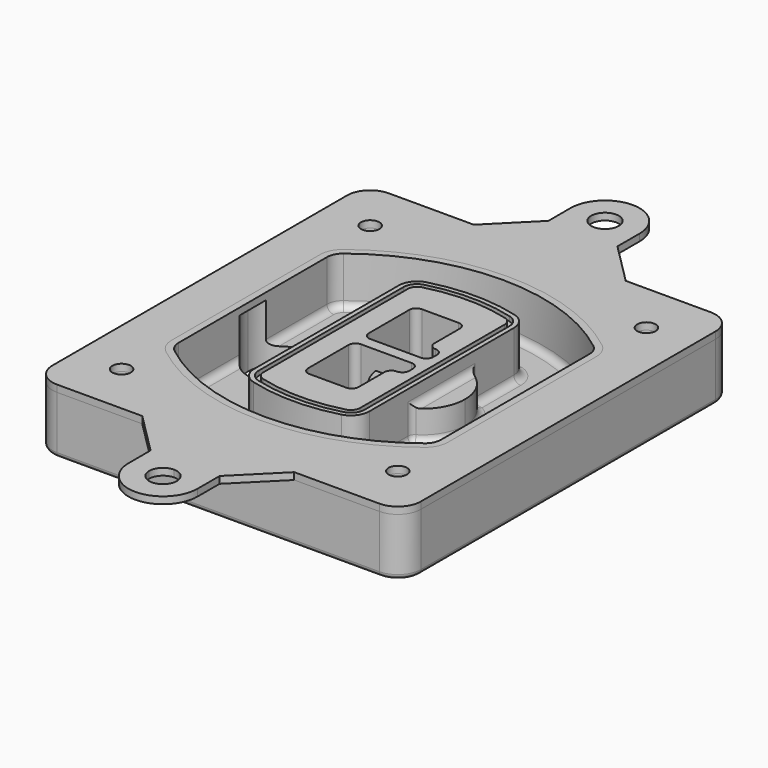
from build123d import *

# Parameters (mm, degrees)
F0_R      = 4
F1_DEPTH  = 25
F2_DEPTH  = 3
F3_DEPTH  = 18
F5_DEPTH  = 21
F6_DEPTH  = 2
F8_DEPTH  = 20
F9_DEPTH  = 16
F10_DEPTH = 25
F7_R      = 6
F7_R_2    = 4
F11_DEPTH = 6
F13_DEPTH = 9
F14_R     = 3
F15_R     = 2
F16_R     = 6
F16_R_2   = 4
F17_DEPTH = 3


with BuildPart() as f1:
    # F0 (on Top) → F1 (new body)
    with BuildSketch(Plane.XY):
        with BuildLine():
            ThreePointArc((14.05, 38.3825811321), (16.9789321881, 31.3115133202), (24.05, 28.3825811321))
            Line((24.05, 28.3825811321), (164.05, 28.3825811321))
            ThreePointArc((164.05, 28.3825811321), (171.1210678119, 31.3115133202), (174.05, 38.3825811321))
            Line((174.05, 38.3825811321), (174.05, 198.3825811321))
            ThreePointArc((174.05, 198.3825811321), (171.1210678119, 205.4536489439), (164.05, 208.3825811321))
            Line((164.05, 208.3825811321), (24.05, 208.3825811321))
            ThreePointArc((24.05, 208.3825811321), (16.9789321881, 205.4536489439), (14.05, 198.3825811321))
            Line((14.05, 198.3825811321), (14.05, 38.3825811321))
        make_face()
        with Locations((34.05, 50.8825811321)):
            Circle(F0_R, mode=Mode.SUBTRACT)
        with Locations((154.05, 50.8825811321)):
            Circle(F0_R, mode=Mode.SUBTRACT)
        with Locations((34.05, 185.8825811321)):
            Circle(F0_R, mode=Mode.SUBTRACT)
        with BuildLine():
            ThreePointArc((30.05, 158.6760234193), (31.4679615202, 164.8154295545), (35.4346153846, 169.7112011673))
            ThreePointArc((35.4346153846, 169.7112011673), (94.05, 189.8825811321), (152.6653846154, 169.7112011673))
            ThreePointArc((152.6653846154, 169.7112011673), (156.6320384798, 164.8154295545), (158.05, 158.6760234193))
            Line((158.05, 158.6760234193), (158.05, 78.0891388448))
            ThreePointArc((158.05, 78.0891388448), (156.6320384798, 71.9497327097), (152.6653846154, 67.0539610969))
            ThreePointArc((152.6653846154, 67.0539610969), (94.05, 46.8825811321), (35.4346153846, 67.0539610969))
            ThreePointArc((35.4346153846, 67.0539610969), (31.4679615202, 71.9497327097), (30.05, 78.0891388448))
            Line((30.05, 78.0891388448), (30.05, 158.6760234193))
        make_face(mode=Mode.SUBTRACT)
        with Locations((154.05, 185.8825811321)):
            Circle(F0_R, mode=Mode.SUBTRACT)
        with BuildLine():
            ThreePointArc((152.6653846154, 169.7112011673), (94.05, 189.8825811321), (35.4346153846, 169.7112011673))
            ThreePointArc((35.4346153846, 169.7112011673), (31.4679615202, 164.8154295545), (30.05, 158.6760234193))
            Line((30.05, 158.6760234193), (30.05, 78.0891388448))
            ThreePointArc((30.05, 78.0891388448), (31.4679615202, 71.9497327097), (35.4346153846, 67.0539610969))
            ThreePointArc((35.4346153846, 67.0539610969), (94.05, 46.8825811321), (152.6653846154, 67.0539610969))
            ThreePointArc((152.6653846154, 67.0539610969), (156.6320384798, 71.9497327097), (158.05, 78.0891388448))
            Line((158.05, 78.0891388448), (158.05, 158.6760234193))
            ThreePointArc((158.05, 158.6760234193), (156.6320384798, 164.8154295545), (152.6653846154, 169.7112011673))
        make_face()
        with BuildLine():
            Line((34.05, 78.0891388448), (34.05, 158.6760234193))
            ThreePointArc((34.05, 158.6760234193), (35.0628296573, 163.0613135158), (37.8961538462, 166.5582932393))
            ThreePointArc((37.8961538462, 166.5582932393), (94.05, 185.8825811321), (150.2038461538, 166.5582932393))
            ThreePointArc((150.2038461538, 166.5582932393), (153.0371703427, 163.0613135158), (154.05, 158.6760234193))
            Line((154.05, 158.6760234193), (154.05, 78.0891388448))
            ThreePointArc((154.05, 78.0891388448), (153.0371703427, 73.7038487483), (150.2038461538, 70.2068690248))
            ThreePointArc((150.2038461538, 70.2068690248), (94.05, 50.8825811321), (37.8961538462, 70.2068690248))
            ThreePointArc((37.8961538462, 70.2068690248), (35.0628296573, 73.7038487483), (34.05, 78.0891388448))
        make_face(mode=Mode.SUBTRACT)
        with BuildLine():
            ThreePointArc((37.8961538462, 166.5582932393), (35.0628296573, 163.0613135158), (34.05, 158.6760234193))
            Line((34.05, 158.6760234193), (34.05, 78.0891388448))
            ThreePointArc((34.05, 78.0891388448), (35.0628296573, 73.7038487483), (37.8961538462, 70.2068690248))
            ThreePointArc((37.8961538462, 70.2068690248), (94.05, 50.8825811321), (150.2038461538, 70.2068690248))
            ThreePointArc((150.2038461538, 70.2068690248), (153.0371703427, 73.7038487483), (154.05, 78.0891388448))
            Line((154.05, 78.0891388448), (154.05, 158.6760234193))
            ThreePointArc((154.05, 158.6760234193), (153.0371703427, 163.0613135158), (150.2038461538, 166.5582932393))
            ThreePointArc((150.2038461538, 166.5582932393), (94.05, 185.8825811321), (37.8961538462, 166.5582932393))
        make_face()
        with BuildLine():
            ThreePointArc((148.3576923077, 164.1936122933), (150.3410192399, 161.7457264869), (151.05, 158.6760234193))
            Line((151.05, 158.6760234193), (151.05, 78.0891388448))
            ThreePointArc((151.05, 78.0891388448), (150.3410192399, 75.0194357772), (148.3576923077, 72.5715499708))
            ThreePointArc((148.3576923077, 72.5715499708), (94.05, 53.8825811321), (39.7423076923, 72.5715499708))
            ThreePointArc((39.7423076923, 72.5715499708), (37.7589807601, 75.0194357772), (37.05, 78.0891388448))
            Line((37.05, 78.0891388448), (37.05, 158.6760234193))
            ThreePointArc((37.05, 158.6760234193), (37.7589807601, 161.7457264869), (39.7423076923, 164.1936122933))
            ThreePointArc((39.7423076923, 164.1936122933), (94.05, 182.8825811321), (148.3576923077, 164.1936122933))
        make_face(mode=Mode.SUBTRACT)
        with BuildLine():
            Line((151.05, 78.0891388448), (151.05, 158.6760234193))
            ThreePointArc((151.05, 158.6760234193), (150.3410192399, 161.7457264869), (148.3576923077, 164.1936122933))
            ThreePointArc((148.3576923077, 164.1936122933), (94.05, 182.8825811321), (39.7423076923, 164.1936122933))
            ThreePointArc((39.7423076923, 164.1936122933), (37.7589807601, 161.7457264869), (37.05, 158.6760234193))
            Line((37.05, 158.6760234193), (37.05, 78.0891388448))
            ThreePointArc((37.05, 78.0891388448), (37.7589807601, 75.0194357772), (39.7423076923, 72.5715499708))
            ThreePointArc((39.7423076923, 72.5715499708), (94.05, 53.8825811321), (148.3576923077, 72.5715499708))
            ThreePointArc((148.3576923077, 72.5715499708), (150.3410192399, 75.0194357772), (151.05, 78.0891388448))
        make_face()
    extrude(amount=-F1_DEPTH)

    # F0 (on Top) → F2 (join)
    with BuildSketch(Plane.XY):
        with BuildLine():
            ThreePointArc((37.8961538462, 166.5582932393), (35.0628296573, 163.0613135158), (34.05, 158.6760234193))
            Line((34.05, 158.6760234193), (34.05, 78.0891388448))
            ThreePointArc((34.05, 78.0891388448), (35.0628296573, 73.7038487483), (37.8961538462, 70.2068690248))
            ThreePointArc((37.8961538462, 70.2068690248), (94.05, 50.8825811321), (150.2038461538, 70.2068690248))
            ThreePointArc((150.2038461538, 70.2068690248), (153.0371703427, 73.7038487483), (154.05, 78.0891388448))
            Line((154.05, 78.0891388448), (154.05, 158.6760234193))
            ThreePointArc((154.05, 158.6760234193), (153.0371703427, 163.0613135158), (150.2038461538, 166.5582932393))
            ThreePointArc((150.2038461538, 166.5582932393), (94.05, 185.8825811321), (37.8961538462, 166.5582932393))
        make_face()
        with BuildLine():
            ThreePointArc((148.3576923077, 164.1936122933), (150.3410192399, 161.7457264869), (151.05, 158.6760234193))
            Line((151.05, 158.6760234193), (151.05, 78.0891388448))
            ThreePointArc((151.05, 78.0891388448), (150.3410192399, 75.0194357772), (148.3576923077, 72.5715499708))
            ThreePointArc((148.3576923077, 72.5715499708), (94.05, 53.8825811321), (39.7423076923, 72.5715499708))
            ThreePointArc((39.7423076923, 72.5715499708), (37.7589807601, 75.0194357772), (37.05, 78.0891388448))
            Line((37.05, 78.0891388448), (37.05, 158.6760234193))
            ThreePointArc((37.05, 158.6760234193), (37.7589807601, 161.7457264869), (39.7423076923, 164.1936122933))
            ThreePointArc((39.7423076923, 164.1936122933), (94.05, 182.8825811321), (148.3576923077, 164.1936122933))
        make_face(mode=Mode.SUBTRACT)
    extrude(amount=F2_DEPTH)

    # F0 (on Top) → F3 (cut)
    with BuildSketch(Plane.XY):
        with BuildLine():
            Line((151.05, 78.0891388448), (151.05, 158.6760234193))
            ThreePointArc((151.05, 158.6760234193), (150.3410192399, 161.7457264869), (148.3576923077, 164.1936122933))
            ThreePointArc((148.3576923077, 164.1936122933), (94.05, 182.8825811321), (39.7423076923, 164.1936122933))
            ThreePointArc((39.7423076923, 164.1936122933), (37.7589807601, 161.7457264869), (37.05, 158.6760234193))
            Line((37.05, 158.6760234193), (37.05, 78.0891388448))
            ThreePointArc((37.05, 78.0891388448), (37.7589807601, 75.0194357772), (39.7423076923, 72.5715499708))
            ThreePointArc((39.7423076923, 72.5715499708), (94.05, 53.8825811321), (148.3576923077, 72.5715499708))
            ThreePointArc((148.3576923077, 72.5715499708), (150.3410192399, 75.0194357772), (151.05, 78.0891388448))
        make_face()
    extrude(amount=-F3_DEPTH, mode=Mode.SUBTRACT)

    # F4 (on face) → F5 (join, through all)
    with BuildSketch(Plane.XY.offset(3)):
        with BuildLine():
            ThreePointArc((69.05, 79.13605345), (70.6988454002, 74.2716074128), (74.9657088123, 71.4123412437))
            ThreePointArc((74.9657088123, 71.4123412437), (94.05, 68.8825811321), (113.1342911877, 71.4123412437))
            ThreePointArc((113.1342911877, 71.4123412437), (117.4011545998, 74.2716074128), (119.05, 79.13605345))
            Line((119.05, 79.13605345), (119.05, 157.6291088141))
            ThreePointArc((119.05, 157.6291088141), (117.4011545998, 162.4935548514), (113.1342911877, 165.3528210204))
            ThreePointArc((113.1342911877, 165.3528210204), (94.05, 167.8825811321), (74.9657088123, 165.3528210204))
            ThreePointArc((74.9657088123, 165.3528210204), (70.6988454002, 162.4935548514), (69.05, 157.6291088141))
            Line((69.05, 157.6291088141), (69.05, 79.13605345))
        make_face()
        with BuildLine():
            ThreePointArc((112.6132183908, 163.4218929688), (115.8133659499, 161.2774433421), (117.05, 157.6291088141))
            Line((117.05, 157.6291088141), (117.05, 79.13605345))
            ThreePointArc((117.05, 79.13605345), (115.8133659499, 75.4877189221), (112.6132183908, 73.3432692953))
            ThreePointArc((112.6132183908, 73.3432692953), (94.05, 70.8825811321), (75.4867816092, 73.3432692953))
            ThreePointArc((75.4867816092, 73.3432692953), (72.2866340501, 75.4877189221), (71.05, 79.13605345))
            Line((71.05, 79.13605345), (71.05, 157.6291088141))
            ThreePointArc((71.05, 157.6291088141), (72.2866340501, 161.2774433421), (75.4867816092, 163.4218929688))
            ThreePointArc((75.4867816092, 163.4218929688), (94.05, 165.8825811321), (112.6132183908, 163.4218929688))
        make_face(mode=Mode.SUBTRACT)
        with BuildLine():
            Line((117.05, 79.13605345), (117.05, 157.6291088141))
            ThreePointArc((117.05, 157.6291088141), (115.8133659499, 161.2774433421), (112.6132183908, 163.4218929688))
            ThreePointArc((112.6132183908, 163.4218929688), (94.05, 165.8825811321), (75.4867816092, 163.4218929688))
            ThreePointArc((75.4867816092, 163.4218929688), (72.2866340501, 161.2774433421), (71.05, 157.6291088141))
            Line((71.05, 157.6291088141), (71.05, 79.13605345))
            ThreePointArc((71.05, 79.13605345), (72.2866340501, 75.4877189221), (75.4867816092, 73.3432692953))
            ThreePointArc((75.4867816092, 73.3432692953), (94.05, 70.8825811321), (112.6132183908, 73.3432692953))
            ThreePointArc((112.6132183908, 73.3432692953), (115.8133659499, 75.4877189221), (117.05, 79.13605345))
        make_face()
        with BuildLine():
            ThreePointArc((112.0921455939, 161.4909649173), (114.2255772999, 160.0613318328), (115.05, 157.6291088141))
            Line((115.05, 157.6291088141), (115.05, 79.13605345))
            ThreePointArc((115.05, 79.13605345), (114.2255772999, 76.7038304314), (112.0921455939, 75.2741973469))
            ThreePointArc((112.0921455939, 75.2741973469), (94.05, 72.8825811321), (76.0078544061, 75.2741973469))
            ThreePointArc((76.0078544061, 75.2741973469), (73.8744227001, 76.7038304314), (73.05, 79.13605345))
            Line((73.05, 79.13605345), (73.05, 157.6291088141))
            ThreePointArc((73.05, 157.6291088141), (73.8744227001, 160.0613318328), (76.0078544061, 161.4909649173))
            ThreePointArc((76.0078544061, 161.4909649173), (94.05, 163.8825811321), (112.0921455939, 161.4909649173))
        make_face(mode=Mode.SUBTRACT)
        with BuildLine():
            Line((115.05, 79.13605345), (115.05, 157.6291088141))
            ThreePointArc((115.05, 157.6291088141), (114.2255772999, 160.0613318328), (112.0921455939, 161.4909649173))
            ThreePointArc((112.0921455939, 161.4909649173), (94.05, 163.8825811321), (76.0078544061, 161.4909649173))
            ThreePointArc((76.0078544061, 161.4909649173), (73.8744227001, 160.0613318328), (73.05, 157.6291088141))
            Line((73.05, 157.6291088141), (73.05, 79.13605345))
            ThreePointArc((73.05, 79.13605345), (73.8744227001, 76.7038304314), (76.0078544061, 75.2741973469))
            ThreePointArc((76.0078544061, 75.2741973469), (94.05, 72.8825811321), (112.0921455939, 75.2741973469))
            ThreePointArc((112.0921455939, 75.2741973469), (114.2255772999, 76.7038304314), (115.05, 79.13605345))
        make_face()
        with BuildLine():
            Line((86.05, 115.8825811321), (108.05, 115.8825811321))
            ThreePointArc((108.05, 115.8825811321), (110.1713203436, 115.0039014756), (111.05, 112.8825811321))
            Line((111.05, 112.8825811321), (111.05, 110.8825811321))
            ThreePointArc((111.05, 110.8825811321), (110.1713203436, 108.7612607885), (108.05, 107.8825811321))
            ThreePointArc((108.05, 107.8825811321), (105.9286796564, 107.0039014756), (105.05, 104.8825811321))
            Line((105.05, 104.8825811321), (105.05, 90.8825811321))
            ThreePointArc((105.05, 90.8825811321), (104.1713203436, 88.7612607885), (102.05, 87.8825811321))
            Line((102.05, 87.8825811321), (86.05, 87.8825811321))
            ThreePointArc((86.05, 87.8825811321), (83.9286796564, 88.7612607885), (83.05, 90.8825811321))
            Line((83.05, 90.8825811321), (83.05, 112.8825811321))
            ThreePointArc((83.05, 112.8825811321), (83.9286796564, 115.0039014756), (86.05, 115.8825811321))
        make_face(mode=Mode.SUBTRACT)
        with BuildLine():
            ThreePointArc((86.05, 120.8825811321), (83.9286796564, 121.7612607885), (83.05, 123.8825811321))
            Line((83.05, 123.8825811321), (83.05, 145.8825811321))
            ThreePointArc((83.05, 145.8825811321), (83.9286796564, 148.0039014756), (86.05, 148.8825811321))
            Line((86.05, 148.8825811321), (102.05, 148.8825811321))
            ThreePointArc((102.05, 148.8825811321), (104.1713203436, 148.0039014756), (105.05, 145.8825811321))
            Line((105.05, 145.8825811321), (105.05, 131.8825811321))
            ThreePointArc((105.05, 131.8825811321), (105.9286796564, 129.7612607885), (108.05, 128.8825811321))
            ThreePointArc((108.05, 128.8825811321), (110.1713203436, 128.0039014756), (111.05, 125.8825811321))
            Line((111.05, 125.8825811321), (111.05, 123.8825811321))
            ThreePointArc((111.05, 123.8825811321), (110.1713203436, 121.7612607885), (108.05, 120.8825811321))
            Line((108.05, 120.8825811321), (86.05, 120.8825811321))
        make_face(mode=Mode.SUBTRACT)
    extrude(amount=-F5_DEPTH)

    # F4 (on face) → F6 (cut)
    with BuildSketch(Plane.XY.offset(3)):
        with BuildLine():
            Line((117.05, 79.13605345), (117.05, 157.6291088141))
            ThreePointArc((117.05, 157.6291088141), (115.8133659499, 161.2774433421), (112.6132183908, 163.4218929688))
            ThreePointArc((112.6132183908, 163.4218929688), (94.05, 165.8825811321), (75.4867816092, 163.4218929688))
            ThreePointArc((75.4867816092, 163.4218929688), (72.2866340501, 161.2774433421), (71.05, 157.6291088141))
            Line((71.05, 157.6291088141), (71.05, 79.13605345))
            ThreePointArc((71.05, 79.13605345), (72.2866340501, 75.4877189221), (75.4867816092, 73.3432692953))
            ThreePointArc((75.4867816092, 73.3432692953), (94.05, 70.8825811321), (112.6132183908, 73.3432692953))
            ThreePointArc((112.6132183908, 73.3432692953), (115.8133659499, 75.4877189221), (117.05, 79.13605345))
        make_face()
        with BuildLine():
            ThreePointArc((112.0921455939, 161.4909649173), (114.2255772999, 160.0613318328), (115.05, 157.6291088141))
            Line((115.05, 157.6291088141), (115.05, 79.13605345))
            ThreePointArc((115.05, 79.13605345), (114.2255772999, 76.7038304314), (112.0921455939, 75.2741973469))
            ThreePointArc((112.0921455939, 75.2741973469), (94.05, 72.8825811321), (76.0078544061, 75.2741973469))
            ThreePointArc((76.0078544061, 75.2741973469), (73.8744227001, 76.7038304314), (73.05, 79.13605345))
            Line((73.05, 79.13605345), (73.05, 157.6291088141))
            ThreePointArc((73.05, 157.6291088141), (73.8744227001, 160.0613318328), (76.0078544061, 161.4909649173))
            ThreePointArc((76.0078544061, 161.4909649173), (94.05, 163.8825811321), (112.0921455939, 161.4909649173))
        make_face(mode=Mode.SUBTRACT)
    extrude(amount=-F6_DEPTH, mode=Mode.SUBTRACT)

    # F7 (on face) → F8 (join)
    with BuildSketch(Plane(origin=(0, 0, -25), x_dir=(1, 0, 0), z_dir=(0, 0, -1))):
        with BuildLine():
            ThreePointArc((97.33842436, -118.3825811321), (110.8067035675, -104.9143019245), (124.274982775, -118.3825811321))
            Line((124.274982775, -118.3825811321), (129.274982775, -118.3825811321))
            ThreePointArc((129.274982775, -118.3825811321), (110.8067035675, -99.9143019245), (92.33842436, -118.3825811321))
            Line((92.33842436, -118.3825811321), (97.33842436, -118.3825811321))
        make_face()
        with BuildLine():
            Line((97.33842436, -118.3825811321), (124.274982775, -118.3825811321))
            ThreePointArc((124.274982775, -118.3825811321), (110.8067035675, -104.9143019245), (97.33842436, -118.3825811321))
        make_face()
        with BuildLine():
            ThreePointArc((97.33842436, -118.3825811321), (110.8067035675, -131.8508603396), (124.274982775, -118.3825811321))
            Line((124.274982775, -118.3825811321), (97.33842436, -118.3825811321))
        make_face()
        with BuildLine():
            Line((129.274982775, -118.3825811321), (124.274982775, -118.3825811321))
            ThreePointArc((124.274982775, -118.3825811321), (110.8067035675, -131.8508603396), (97.33842436, -118.3825811321))
            Line((97.33842436, -118.3825811321), (92.33842436, -118.3825811321))
            ThreePointArc((92.33842436, -118.3825811321), (110.8067035675, -136.8508603396), (129.274982775, -118.3825811321))
        make_face()
    extrude(amount=-F8_DEPTH)

    # F7 (on face) → F9 (cut)
    with BuildSketch(Plane(origin=(0, 0, -25), x_dir=(1, 0, 0), z_dir=(0, 0, -1))):
        with BuildLine():
            Line((97.33842436, -118.3825811321), (124.274982775, -118.3825811321))
            ThreePointArc((124.274982775, -118.3825811321), (110.8067035675, -104.9143019245), (97.33842436, -118.3825811321))
        make_face()
        with BuildLine():
            ThreePointArc((97.33842436, -118.3825811321), (110.8067035675, -131.8508603396), (124.274982775, -118.3825811321))
            Line((124.274982775, -118.3825811321), (97.33842436, -118.3825811321))
        make_face()
    extrude(amount=-F9_DEPTH, mode=Mode.SUBTRACT)

    # F7 (on face) → F10 (cut)
    with BuildSketch(Plane(origin=(0, 0, -25), x_dir=(1, 0, 0), z_dir=(0, 0, -1))):
        with BuildLine():
            Line((35.0181770675, -118.3825811321), (61.9547354825, -118.3825811321))
            ThreePointArc((61.9547354825, -118.3825811321), (48.486456275, -104.9143019245), (35.0181770675, -118.3825811321))
        make_face()
        with BuildLine():
            ThreePointArc((35.0181770675, -118.3825811321), (48.486456275, -131.8508603396), (61.9547354825, -118.3825811321))
            Line((61.9547354825, -118.3825811321), (35.0181770675, -118.3825811321))
        make_face()
    extrude(amount=-F10_DEPTH, mode=Mode.SUBTRACT)

    # F7 (on face) → F11 (cut)
    with BuildSketch(Plane(origin=(0, 0, -25), x_dir=(1, 0, 0), z_dir=(0, 0, -1))):
        with Locations((154.05, -185.8825811321)):
            Circle(F7_R)
        with Locations((154.05, -185.8825811321)):
            Circle(F7_R_2, mode=Mode.SUBTRACT)
        with Locations((154.05, -185.8825811321)):
            Circle(F7_R)
        with Locations((154.05, -185.8825811321)):
            Circle(F7_R_2, mode=Mode.SUBTRACT)
        with Locations((34.05, -185.8825811321)):
            Circle(F7_R)
        with Locations((34.05, -185.8825811321)):
            Circle(F7_R_2, mode=Mode.SUBTRACT)
        with Locations((34.05, -185.8825811321)):
            Circle(F7_R)
        with Locations((34.05, -185.8825811321)):
            Circle(F7_R_2, mode=Mode.SUBTRACT)
        with Locations((34.05, -50.8825811321)):
            Circle(F7_R)
        with Locations((34.05, -50.8825811321)):
            Circle(F7_R_2, mode=Mode.SUBTRACT)
        with Locations((34.05, -50.8825811321)):
            Circle(F7_R)
        with Locations((34.05, -50.8825811321)):
            Circle(F7_R_2, mode=Mode.SUBTRACT)
        with Locations((154.05, -50.8825811321)):
            Circle(F7_R)
        with Locations((154.05, -50.8825811321)):
            Circle(F7_R_2, mode=Mode.SUBTRACT)
        with Locations((154.05, -50.8825811321)):
            Circle(F7_R)
        with Locations((154.05, -50.8825811321)):
            Circle(F7_R_2, mode=Mode.SUBTRACT)
    extrude(amount=-F11_DEPTH, mode=Mode.SUBTRACT)

    # F12 (on face) → F13 (cut, through all)
    with BuildSketch(Plane(origin=(0, 0, -9), x_dir=(1, 0, 0), z_dir=(0, 0, -1))):
        with BuildLine():
            Line((105.05, -104.8825811321), (105.05, -100.8344273567))
            ThreePointArc((105.05, -100.8344273567), (96.6196536419, -106.5586667507), (92.5084157545, -115.8825811321))
            Line((92.5084157545, -115.8825811321), (97.5724848595, -115.8825811321))
            ThreePointArc((97.5724848595, -115.8825811321), (100.2357188154, -110.0369939039), (105.3036447004, -106.0898642673))
            ThreePointArc((105.3036447004, -106.0898642673), (105.1140958889, -105.4994012441), (105.05, -104.8825811321))
        make_face()
        with BuildLine():
            ThreePointArc((105.3036447004, -130.6752979968), (100.2357188154, -126.7281683602), (97.5724848595, -120.8825811321))
            Line((97.5724848595, -120.8825811321), (92.5084157545, -120.8825811321))
            ThreePointArc((92.5084157545, -120.8825811321), (96.6196536419, -130.2064955134), (105.05, -135.9307349074))
            Line((105.05, -135.9307349074), (105.05, -131.8825811321))
            ThreePointArc((105.05, -131.8825811321), (105.1140958889, -131.26576102), (105.3036447004, -130.6752979968))
        make_face()
        with BuildLine():
            ThreePointArc((105.3036447004, -106.0898642673), (100.2357188154, -110.0369939039), (97.5724848595, -115.8825811321))
            Line((97.5724848595, -115.8825811321), (108.05, -115.8825811321))
            ThreePointArc((108.05, -115.8825811321), (110.1713203436, -115.0039014756), (111.05, -112.8825811321))
            Line((111.05, -112.8825811321), (111.05, -110.8825811321))
            ThreePointArc((111.05, -110.8825811321), (110.1713203436, -108.7612607885), (108.05, -107.8825811321))
            ThreePointArc((108.05, -107.8825811321), (106.4101599782, -107.3947365219), (105.3036447004, -106.0898642673))
        make_face()
        with BuildLine():
            Line((108.05, -120.8825811321), (97.5724848595, -120.8825811321))
            ThreePointArc((97.5724848595, -120.8825811321), (100.2357188154, -126.7281683602), (105.3036447004, -130.6752979968))
            ThreePointArc((105.3036447004, -130.6752979968), (106.4101599782, -129.3704257422), (108.05, -128.8825811321))
            ThreePointArc((108.05, -128.8825811321), (110.1713203436, -128.0039014756), (111.05, -125.8825811321))
            Line((111.05, -125.8825811321), (111.05, -123.8825811321))
            ThreePointArc((111.05, -123.8825811321), (110.1713203436, -121.7612607885), (108.05, -120.8825811321))
        make_face()
    extrude(amount=F13_DEPTH, mode=Mode.SUBTRACT)

    # F14
    f14_edges = [f1.edges().sort_by_distance(p)[0] for p in [
        (37.05, 94.679105, -18),
        (37.05, 142.086057, -18),
        (119.05, 118.382581, -5),
        (119.05, 134.909087, -11.5),
        (119.05, 101.856075, -11.5),
        (119.05, 90.496064, -18),
        (129.274983, 118.382581, -18),
    ]]
    fillet(f14_edges, radius=F14_R)

    # F15
    f15_edges = [f1.edges().sort_by_distance(p)[0] for p in [
        (94.05, 28.382581, -25),
    ]]
    fillet(f15_edges, radius=F15_R)


with BuildPart() as f17:
    # F16 (on face) → F17 (new body, through all)
    with BuildSketch(Plane.XY):
        with BuildLine():
            Line((79.05, 226.3825811321), (61.05, 208.3825811321))
            Line((61.05, 208.3825811321), (127.05, 208.3825811321))
            Line((127.05, 208.3825811321), (109.05, 226.3825811321))
            Line((109.05, 226.3825811321), (109.05, 238.3825811321))
            ThreePointArc((109.05, 238.3825811321), (94.05, 253.3825811321), (79.05, 238.3825811321))
            Line((79.05, 238.3825811321), (79.05, 226.3825811321))
        make_face()
        with Locations((94.05, 238.3825811321)):
            Circle(F16_R, mode=Mode.SUBTRACT)
        with BuildLine():
            Line((94.05, 28.3825811321), (61.05, 28.3825811321))
            Line((61.05, 28.3825811321), (79.05, 10.3825811321))
            Line((79.05, 10.3825811321), (79.05, -1.6174188679))
            Line((79.05, -1.6174188679), (88.05, -1.6174188679))
            ThreePointArc((88.05, -1.6174188679), (89.8073593129, 2.6252218192), (94.05, 4.3825811321))
            Line((94.05, 4.3825811321), (94.05, 28.3825811321))
        make_face()
        with BuildLine():
            Line((127.05, 28.3825811321), (94.05, 28.3825811321))
            Line((94.05, 28.3825811321), (94.05, 4.3825811321))
            ThreePointArc((94.05, 4.3825811321), (98.2926406871, 2.6252218192), (100.05, -1.6174188679))
            Line((100.05, -1.6174188679), (109.05, -1.6174188679))
            Line((109.05, -1.6174188679), (109.05, 10.3825811321))
            Line((109.05, 10.3825811321), (127.05, 28.3825811321))
        make_face()
        with BuildLine():
            Line((88.05, -1.6174188679), (79.05, -1.6174188679))
            ThreePointArc((79.05, -1.6174188679), (94.05, -16.6174188679), (109.05, -1.6174188679))
            Line((109.05, -1.6174188679), (100.05, -1.6174188679))
            ThreePointArc((100.05, -1.6174188679), (94.05, -7.6174188679), (88.05, -1.6174188679))
        make_face()
        with BuildLine():
            Line((61.05, 208.3825811321), (24.05, 208.3825811321))
            ThreePointArc((24.05, 208.3825811321), (16.9789321881, 205.4536489439), (14.05, 198.3825811321))
            Line((14.05, 198.3825811321), (14.05, 38.3825811321))
            ThreePointArc((14.05, 38.3825811321), (16.9789321881, 31.3115133202), (24.05, 28.3825811321))
            Line((24.05, 28.3825811321), (61.05, 28.3825811321))
            Line((61.05, 28.3825811321), (94.05, 28.3825811321))
            Line((94.05, 28.3825811321), (127.05, 28.3825811321))
            Line((127.05, 28.3825811321), (164.05, 28.3825811321))
            ThreePointArc((164.05, 28.3825811321), (171.1210678119, 31.3115133202), (174.05, 38.3825811321))
            Line((174.05, 38.3825811321), (174.05, 198.3825811321))
            ThreePointArc((174.05, 198.3825811321), (171.1210678119, 205.4536489439), (164.05, 208.3825811321))
            Line((164.05, 208.3825811321), (127.05, 208.3825811321))
            Line((127.05, 208.3825811321), (61.05, 208.3825811321))
        make_face()
        with Locations((34.05, 50.8825811321)):
            Circle(F16_R_2, mode=Mode.SUBTRACT)
        with Locations((154.05, 50.8825811321)):
            Circle(F16_R_2, mode=Mode.SUBTRACT)
        with Locations((34.05, 185.8825811321)):
            Circle(F16_R_2, mode=Mode.SUBTRACT)
        with BuildLine():
            ThreePointArc((37.8961538462, 166.5582932393), (94.05, 185.8825811321), (150.2038461538, 166.5582932393))
            ThreePointArc((150.2038461538, 166.5582932393), (153.0371703427, 163.0613135158), (154.05, 158.6760234193))
            Line((154.05, 158.6760234193), (154.05, 78.0891388448))
            ThreePointArc((154.05, 78.0891388448), (153.0371703427, 73.7038487483), (150.2038461538, 70.2068690248))
            ThreePointArc((150.2038461538, 70.2068690248), (94.05, 50.8825811321), (37.8961538462, 70.2068690248))
            ThreePointArc((37.8961538462, 70.2068690248), (35.0628296573, 73.7038487483), (34.05, 78.0891388448))
            Line((34.05, 78.0891388448), (34.05, 158.6760234193))
            ThreePointArc((34.05, 158.6760234193), (35.0628296573, 163.0613135158), (37.8961538462, 166.5582932393))
        make_face(mode=Mode.SUBTRACT)
        with Locations((154.05, 185.8825811321)):
            Circle(F16_R_2, mode=Mode.SUBTRACT)
    extrude(amount=F17_DEPTH)


solid = Compound([f1.part, f17.part])
